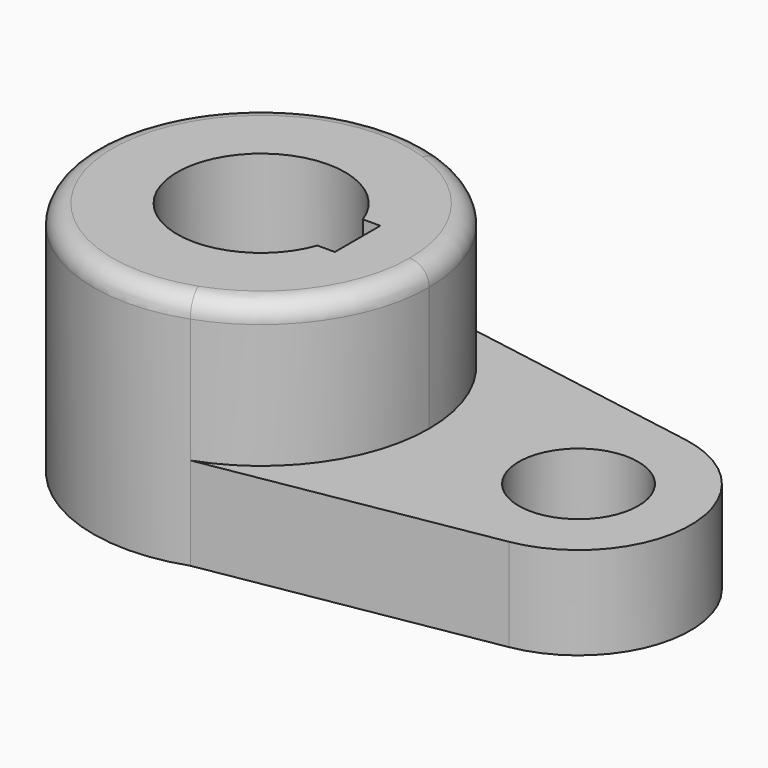
from build123d import *

# Parameters (mm, degrees)
F0_R     = 10.16
F1_DEPTH = 15.7734
F2_DEPTH = 40.2336
F3_R     = 3.302


with BuildPart() as f1:
    # F0 (on Top) → F1 (new body)
    with BuildSketch(Plane.XY):
        with BuildLine():
            ThreePointArc((9.512184, 26.945296), (23.327466, 16.503332), (28.575, 0))
            ThreePointArc((28.575, 0), (23.327466, -16.503332), (9.512184, -26.945296))
            Line((9.512184, -26.945296), (57.191927, -18.776418))
            ThreePointArc((57.191927, -18.776418), (73.025, 0), (57.191927, 18.776418))
            Line((57.191927, 18.776418), (9.512184, 26.945296))
        make_face()
        with Locations((53.975, 0)):
            Circle(F0_R, mode=Mode.SUBTRACT)
    extrude(amount=F1_DEPTH)

    # F0 (on Top) → F2 (join)
    with BuildSketch(Plane.XY):
        with BuildLine():
            ThreePointArc((9.512184, -26.945296), (23.327466, -16.503332), (28.575, 0))
            ThreePointArc((28.575, 0), (23.327466, 16.503332), (9.512184, 26.945296))
            ThreePointArc((9.512184, 26.945296), (-28.575, 0), (9.512184, -26.945296))
        make_face()
        with BuildLine():
            ThreePointArc((13.447765, -4.826), (-14.2875, 0), (13.447765, 4.826))
            Line((13.447765, 4.826), (16.4084, 4.826))
            Line((16.4084, 4.826), (16.4084, -4.826))
            Line((16.4084, -4.826), (13.447765, -4.826))
        make_face(mode=Mode.SUBTRACT)
    extrude(amount=F2_DEPTH)

    # F3
    f3_edges = [f1.edges().sort_by_distance(p)[0] for p in [
        (-9.512184, 26.945296, 40.2336),
    ]]
    fillet(f3_edges, radius=F3_R)


solid = f1.part
